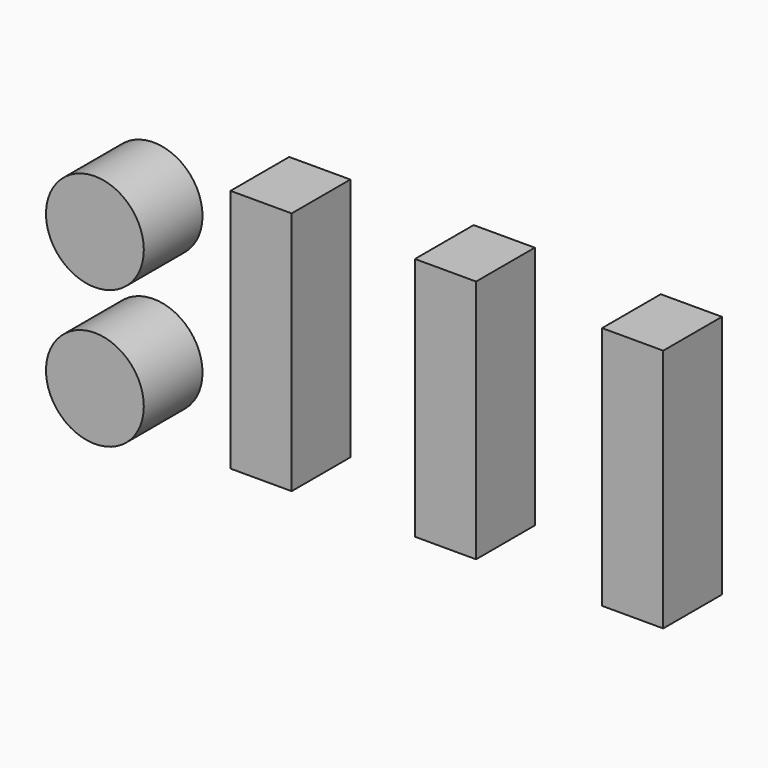
from build123d import *

# Parameters (mm, degrees)
F0_W     = 5
F0_H     = 20
F0_R     = 4
F1_DEPTH = 6


with BuildPart() as f1:
    # F0 (on Front) → F1 (new body)
    with BuildSketch(Plane.XZ):
        with Locations((-41.131349, 22.520708)):
            Rectangle(F0_W, F0_H)
        with Locations((-54.72108, 25.964499)):
            Circle(F0_R)
        with Locations((-26.049008, 22.520708)):
            Rectangle(F0_W, F0_H)
        with Locations((-10.744237, 22.520708)):
            Rectangle(F0_W, F0_H)
        with Locations((-54.72108, 14.690978)):
            Circle(F0_R)
    extrude(amount=F1_DEPTH)


solid = f1.part
